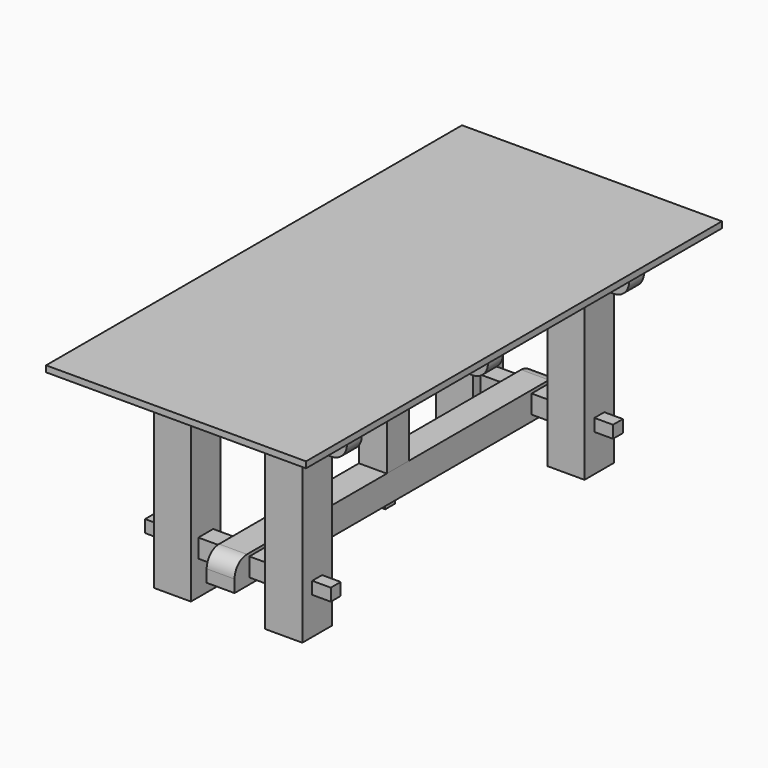
from build123d import *

# Parameters (mm, degrees)
F0_W           = 1066.8
F0_H           = 2133.6
F1_DEPTH       = 76.2
F2_SIZE2       = 87.9881810245
F2_SIZE        = 50.8
F3_W           = 76.2
F3_H           = 76.2
F4_DEPTH       = 457.2
F5_W           = 63.5
F5_H           = 38.1
F6_DEPTH       = 1828.801
F7_W           = 63.5
F7_H           = 76.2
F8_DEPTH       = 914.4
F10_W          = 114.3
F10_H          = 114.3
F11_DEPTH      = 533.4
F13_W          = 152.4
F13_H          = 152.4
F14_DEPTH      = 762
F16_W          = 50.8
F16_H          = 50.8
F17_DEPTH      = 152.4
F18_W          = 50.8
F18_H          = 50.8
F19_DEPTH      = 838.201
F20_W          = 50.8
F20_H          = 50.8
F21_DEPTH      = 381
F22_W          = 76.2
F22_H          = 76.2
F23_DEPTH      = 152.4
F23_DEPTH_BACK = 152.4
F24_W          = 114.3
F24_H          = 114.3
F25_DEPTH      = 838.2
F27_R          = 63.5
F27_2_R        = 63.5
F27_3_R        = 63.5
F27_4_R        = 63.5
F27_5_R        = 63.5
F27_6_R        = 63.5


with BuildPart() as f1:
    # F0 (on Top) → F1 (new body)
    with BuildSketch(Plane.XY):
        Rectangle(F0_W, F0_H)
    extrude(amount=F1_DEPTH)

    # F2
    f2_edges = [f1.edges().sort_by_distance(p)[0] for p in [
        (-533.4, 0, 0),
        (0, -1066.8, 0),
        (533.4, 0, 0),
        (0, 1066.8, 0),
    ]]
    chamfer(f2_edges, length=F2_SIZE, length2=F2_SIZE2)


with BuildPart() as f4:
    # F3 (on Right) → F4 (new body, symmetric)
    with BuildSketch(Plane.YZ):
        with Locations((723.9, -38.1)):
            Rectangle(F3_W, F3_H)
    extrude(amount=F4_DEPTH, both=True)


with BuildPart() as f4b:
    # F3 (on Right) → F4, piece 2 (new body, symmetric)
    with BuildSketch(Plane.YZ):
        with Locations((0, -38.1)):
            Rectangle(F3_W, F3_H)
    extrude(amount=F4_DEPTH, both=True)


with BuildPart() as f4c:
    # F3 (on Right) → F4, piece 3 (new body, symmetric)
    with BuildSketch(Plane.YZ):
        with Locations((-723.9, -38.1)):
            Rectangle(F3_W, F3_H)
    extrude(amount=F4_DEPTH, both=True)


with BuildPart() as f6_tool:
    # F5 (on face) → F6 (new body, through all)
    with BuildSketch(Plane(origin=(0, 762, 0), x_dir=(-1, 0, 0), z_dir=(0, 1, 0))):
        with Locations((-228.6, -19.05)):
            Rectangle(F5_W, F5_H)
        with Locations((228.6, -19.05)):
            Rectangle(F5_W, F5_H)
    extrude(amount=-F6_DEPTH)


with BuildPart() as f4_1:
    add(f4.part)

    # F6: cut by f6_tool
    add(f6_tool.part, mode=Mode.SUBTRACT)


with BuildPart() as f4b_1:
    add(f4b.part)

    # F6: cut by f6_tool
    add(f6_tool.part, mode=Mode.SUBTRACT)


with BuildPart() as f4c_1:
    add(f4c.part)

    # F6: cut by f6_tool
    add(f6_tool.part, mode=Mode.SUBTRACT)


with BuildPart() as f8:
    # F7 (on Front) → F8 (new body, symmetric)
    with BuildSketch(Plane.XZ):
        with Locations((228.6, -38.1)):
            Rectangle(F7_W, F7_H)
    extrude(amount=F8_DEPTH, both=True)

    # F9: cut F4, F4b, F4c
    add(f4_1.part, mode=Mode.SUBTRACT)
    add(f4b_1.part, mode=Mode.SUBTRACT)
    add(f4c_1.part, mode=Mode.SUBTRACT)


with BuildPart() as f8b:
    # F7 (on Front) → F8, piece 2 (new body, symmetric)
    with BuildSketch(Plane.XZ):
        with Locations((-228.6, -38.1)):
            Rectangle(F7_W, F7_H)
    extrude(amount=F8_DEPTH, both=True)

    # F9: cut F4, F4b, F4c
    add(f4_1.part, mode=Mode.SUBTRACT)
    add(f4b_1.part, mode=Mode.SUBTRACT)
    add(f4c_1.part, mode=Mode.SUBTRACT)


with BuildPart() as f11:
    # F10 (on face) → F11 (new body)
    with BuildSketch(Plane(origin=(0, 0, 0), x_dir=(1, 0, 0), z_dir=(0, 0, -1))):
        Rectangle(F10_W, F10_H)
    extrude(amount=F11_DEPTH)

    # F12: cut F4b
    add(f4b_1.part, mode=Mode.SUBTRACT)

    # F16 (on face) → F17 (join)
    with BuildSketch(Plane(origin=(0, 0, -533.4), x_dir=(1, 0, 0), z_dir=(0, 0, -1))):
        Rectangle(F16_W, F16_H)
    extrude(amount=F17_DEPTH)


with BuildPart() as f14:
    # F13 (on face) → F14 (new body)
    with BuildSketch(Plane(origin=(0, 0, 0), x_dir=(1, 0, 0), z_dir=(0, 0, -1))):
        with Locations((228.6, 723.9)):
            Rectangle(F13_W, F13_H)
    extrude(amount=F14_DEPTH)

    # F15: cut F4c, F8b, F8, F4b, F4
    add(f4c_1.part, mode=Mode.SUBTRACT)
    add(f8b.part, mode=Mode.SUBTRACT)
    add(f8.part, mode=Mode.SUBTRACT)
    add(f4b_1.part, mode=Mode.SUBTRACT)
    add(f4_1.part, mode=Mode.SUBTRACT)


with BuildPart() as f14b:
    # F13 (on face) → F14, piece 2 (new body)
    with BuildSketch(Plane(origin=(0, 0, 0), x_dir=(1, 0, 0), z_dir=(0, 0, -1))):
        with Locations((228.6, -723.9)):
            Rectangle(F13_W, F13_H)
    extrude(amount=F14_DEPTH)

    # F15: cut F4c, F8b, F8, F4b, F4
    add(f4c_1.part, mode=Mode.SUBTRACT)
    add(f8b.part, mode=Mode.SUBTRACT)
    add(f8.part, mode=Mode.SUBTRACT)
    add(f4b_1.part, mode=Mode.SUBTRACT)
    add(f4_1.part, mode=Mode.SUBTRACT)


with BuildPart() as f14c:
    # F13 (on face) → F14, piece 3 (new body)
    with BuildSketch(Plane(origin=(0, 0, 0), x_dir=(1, 0, 0), z_dir=(0, 0, -1))):
        with Locations((-228.6, -723.9)):
            Rectangle(F13_W, F13_H)
    extrude(amount=F14_DEPTH)

    # F15: cut F4c, F8b, F8, F4b, F4
    add(f4c_1.part, mode=Mode.SUBTRACT)
    add(f8b.part, mode=Mode.SUBTRACT)
    add(f8.part, mode=Mode.SUBTRACT)
    add(f4b_1.part, mode=Mode.SUBTRACT)
    add(f4_1.part, mode=Mode.SUBTRACT)


with BuildPart() as f14d:
    # F13 (on face) → F14, piece 4 (new body)
    with BuildSketch(Plane(origin=(0, 0, 0), x_dir=(1, 0, 0), z_dir=(0, 0, -1))):
        with Locations((-228.6, 723.9)):
            Rectangle(F13_W, F13_H)
    extrude(amount=F14_DEPTH)

    # F15: cut F4c, F8b, F8, F4b, F4
    add(f4c_1.part, mode=Mode.SUBTRACT)
    add(f8b.part, mode=Mode.SUBTRACT)
    add(f8.part, mode=Mode.SUBTRACT)
    add(f4b_1.part, mode=Mode.SUBTRACT)
    add(f4_1.part, mode=Mode.SUBTRACT)


with BuildPart() as f19_tool:
    # F18 (on face) → F19 (new body, through all)
    with BuildSketch(Plane(origin=(-304.8, 0, 0), x_dir=(0, -1, 0), z_dir=(-1, 0, 0))):
        with Locations((-723.9, -584.2)):
            Rectangle(F18_W, F18_H)
        with Locations((723.9, -584.2)):
            Rectangle(F18_W, F18_H)
    extrude(amount=-F19_DEPTH)


with BuildPart() as f14_1:
    add(f14.part)

    # F19: cut by f19_tool
    add(f19_tool.part, mode=Mode.SUBTRACT)


with BuildPart() as f14b_1:
    add(f14b.part)

    # F19: cut by f19_tool
    add(f19_tool.part, mode=Mode.SUBTRACT)


with BuildPart() as f14c_1:
    add(f14c.part)

    # F19: cut by f19_tool
    add(f19_tool.part, mode=Mode.SUBTRACT)


with BuildPart() as f14d_1:
    add(f14d.part)

    # F19: cut by f19_tool
    add(f19_tool.part, mode=Mode.SUBTRACT)


with BuildPart() as f21:
    # F20 (on Right) → F21 (new body, symmetric)
    with BuildSketch(Plane.YZ):
        with Locations((723.9, -584.2)):
            Rectangle(F20_W, F20_H)
    extrude(amount=F21_DEPTH, both=True)

    # F22 (on Right) → F23, piece 2 (join, two sides)
    with BuildSketch(Plane.YZ) as f23_2_sk:
        with Locations((723.9, -584.2)):
            Rectangle(F22_W, F22_H)
    extrude(amount=F23_DEPTH)
    extrude(f23_2_sk.sketch, amount=-F23_DEPTH_BACK)


with BuildPart() as f21b:
    # F20 (on Right) → F21, piece 2 (new body, symmetric)
    with BuildSketch(Plane.YZ):
        with Locations((-723.9, -584.2)):
            Rectangle(F20_W, F20_H)
    extrude(amount=F21_DEPTH, both=True)

    # F22 (on Right) → F23 (join, two sides)
    with BuildSketch(Plane.YZ) as f23_sk:
        with Locations((-723.9, -584.2)):
            Rectangle(F22_W, F22_H)
    extrude(amount=F23_DEPTH)
    extrude(f23_sk.sketch, amount=-F23_DEPTH_BACK)


with BuildPart() as f25:
    # F24 (on Front) → F25 (new body, symmetric)
    with BuildSketch(Plane.XZ):
        with Locations((0, -590.55)):
            Rectangle(F24_W, F24_H)
    extrude(amount=F25_DEPTH, both=True)

    # F26: cut F21, F11, F21b
    add(f21.part, mode=Mode.SUBTRACT)
    add(f11.part, mode=Mode.SUBTRACT)
    add(f21b.part, mode=Mode.SUBTRACT)

    # F27#6
    f27_6_edges = [f25.edges().sort_by_distance(p)[0] for p in [
        (0, -838.2, -533.4),
        (0, 838.2, -533.4),
    ]]
    fillet(f27_6_edges, radius=F27_6_R)


with BuildPart() as f4_2:
    add(f4_1.part)

    # F27
    f27_edges = [f4_2.edges().sort_by_distance(p)[0] for p in [
        (-457.2, 723.9, -76.2),
        (457.2, 723.9, -76.2),
    ]]
    fillet(f27_edges, radius=F27_R)


with BuildPart() as f4b_2:
    add(f4b_1.part)

    # F27#2
    f27_2_edges = [f4b_2.edges().sort_by_distance(p)[0] for p in [
        (-457.2, 0, -76.2),
        (457.2, 0, -76.2),
    ]]
    fillet(f27_2_edges, radius=F27_2_R)


with BuildPart() as f4c_2:
    add(f4c_1.part)

    # F27#3
    f27_3_edges = [f4c_2.edges().sort_by_distance(p)[0] for p in [
        (-457.2, -723.9, -76.2),
        (457.2, -723.9, -76.2),
    ]]
    fillet(f27_3_edges, radius=F27_3_R)


with BuildPart() as f8b_1:
    add(f8b.part)

    # F27#4
    f27_4_edges = [f8b_1.edges().sort_by_distance(p)[0] for p in [
        (-228.6, -914.4, -76.2),
        (-228.6, 914.4, -76.2),
    ]]
    fillet(f27_4_edges, radius=F27_4_R)


with BuildPart() as f8_1:
    add(f8.part)

    # F27#5
    f27_5_edges = [f8_1.edges().sort_by_distance(p)[0] for p in [
        (228.6, -914.4, -76.2),
        (228.6, 914.4, -76.2),
    ]]
    fillet(f27_5_edges, radius=F27_5_R)


solid = Compound([f1.part, f11.part, f14_1.part, f14b_1.part, f14c_1.part, f14d_1.part, f21.part, f21b.part, f25.part, f4_2.part, f4b_2.part, f4c_2.part, f8b_1.part, f8_1.part])
